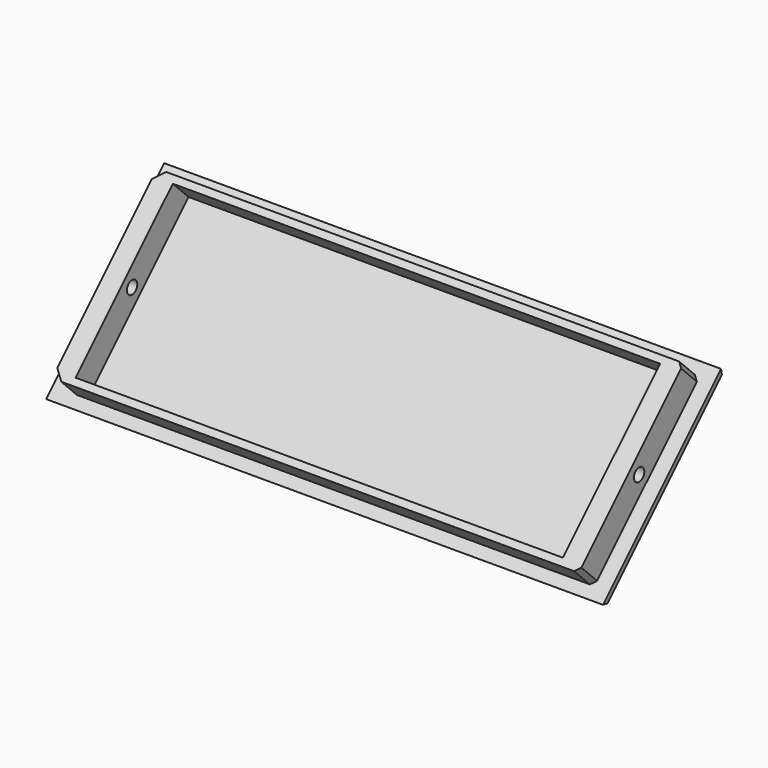
from build123d import *

# Parameters (mm, degrees)
SKETCH018_W             = 120
SKETCH018_H             = 45
PAD003_DEPTH            = 3
SKETCH019_W             = 113.5
SKETCH019_H             = 40
PAD004_DEPTH            = 6
SKETCH020_R             = 1.4
POCKET008_DEPTH         = 116.751
POCKET012_DEPTH         = 376.9523572644
CHAMFER008_SIZE         = 2
SKETCH021_W             = 105
SKETCH021_H             = 37
POCKET013_DEPTH         = 6
CHAMFER009_SIZE         = 2
CHAMFER010_SIZE         = 1
CHAMFER011_SIZE         = 1
CHAMFER012_SIZE         = 2
BODY001_PLACEMENT_ANGLE = 45


with BuildPart() as part:
    # Sketch018 → Pad003 (new body)
    with BuildSketch(Plane.XZ):
        Rectangle(SKETCH018_W, SKETCH018_H)
    extrude(amount=PAD003_DEPTH)

    # Sketch019 (on Face6 of Pad003) → Pad004 (join)
    with BuildSketch(Plane.XZ.offset(3)):
        Rectangle(SKETCH019_W, SKETCH019_H)
    extrude(amount=PAD004_DEPTH)

    # Sketch020 (on Face8 of Pad004) → Pocket008 (cut, through all)
    with BuildSketch(Plane(origin=(56.75, 0, 0), x_dir=(0, 0, 1), z_dir=(1, 0, 0))):
        with Locations((0, 6)):
            Circle(SKETCH020_R)
    extrude(amount=-POCKET008_DEPTH, mode=Mode.SUBTRACT)

    # Sketch024 (on Face3 of Pocket008) → Pocket012 (cut, through all)
    with BuildSketch(Plane(origin=(60, 0, 0), x_dir=(0, 0, 1), z_dir=(1, 0, 0))):
        Polygon((-22.5, 3), (-17.8754562378, -3.604532956), (-35.516254, -3.604532956), align=None)
    pocket012 = extrude(amount=-POCKET012_DEPTH, mode=Mode.SUBTRACT)

    # Mirrored: Pocket012 across Sketch024 V_Axis
    add(pocket012.mirror(Plane(origin=(60, 0, 0), x_dir=(1, 0, 0), z_dir=(0, 0, 1))), mode=Mode.SUBTRACT)

    # Chamfer008
    chamfer008_edges = [part.edges().sort_by_distance(p)[0] for p in [
        (60, 0, 0),
        (-60, 0, 0),
    ]]
    chamfer(chamfer008_edges, length=CHAMFER008_SIZE)

    # Sketch021 → Pocket013 (cut)
    with BuildSketch(Plane.XZ.offset(9)):
        Rectangle(SKETCH021_W, SKETCH021_H)
    extrude(amount=-POCKET013_DEPTH, mode=Mode.SUBTRACT)

    # Chamfer009
    chamfer009_edges = [part.edges().sort_by_distance(p)[0] for p in [
        (-56.75, -6, -20),
    ]]
    chamfer(chamfer009_edges, length=CHAMFER009_SIZE)

    # Chamfer010
    chamfer010_edges = [part.edges().sort_by_distance(p)[0] for p in [
        (56.75, -6, -20),
    ]]
    chamfer(chamfer010_edges, length=CHAMFER010_SIZE)

    # Chamfer011
    chamfer011_edges = [part.edges().sort_by_distance(p)[0] for p in [
        (56.75, -6, 20),
    ]]
    chamfer(chamfer011_edges, length=CHAMFER011_SIZE)

    # Chamfer012
    chamfer012_edges = [part.edges().sort_by_distance(p)[0] for p in [
        (-56.75, -6, 20),
    ]]
    chamfer(chamfer012_edges, length=CHAMFER012_SIZE)


with BuildPart() as part_1:
    # Body001 placement: moved
    add(part.part.moved(Location((7, 18.7509559904, -18.0573149459))).rotate(Axis((7, 18.7509559904, -18.0573149459), (-1, 0, 0)), BODY001_PLACEMENT_ANGLE))


solid = part_1.part
